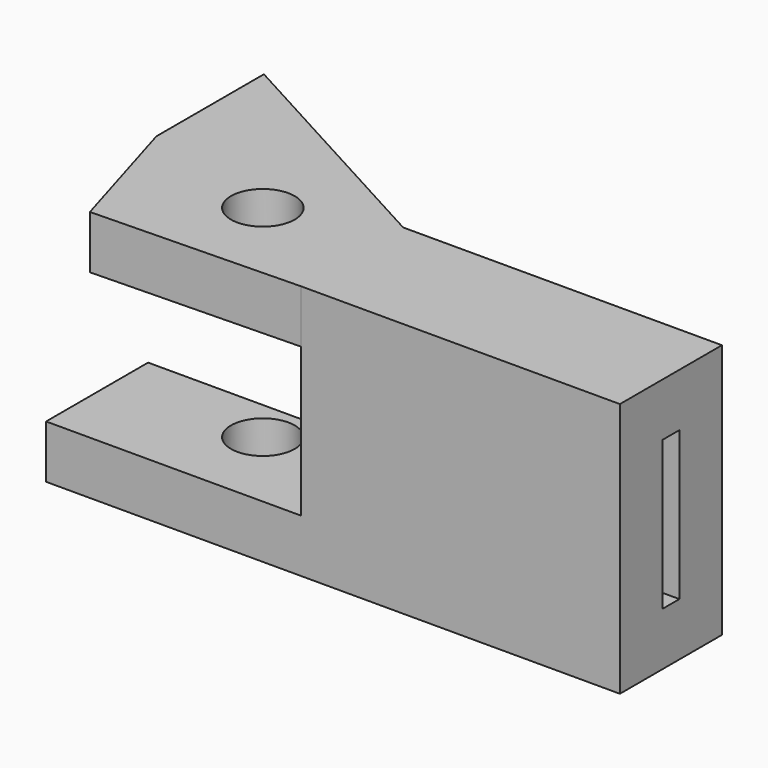
from build123d import *

# Parameters (mm, degrees)
F0_W     = 7.62
F0_H     = 15.24
F1_DEPTH = 19.05
F2_T     = -3.175
F4_DEPTH = 3.175
F5_W     = 15.24
F5_H     = 7.62
F6_DEPTH = 3.175
F7_R     = 1.905
F8_DEPTH = 15.241


with BuildPart() as f1:
    # F0 (on Right) → F1 (new body)
    with BuildSketch(Plane.YZ):
        with Locations((-3.81, 7.62)):
            Rectangle(F0_W, F0_H)
    extrude(amount=F1_DEPTH)

    # F2
    f2_openings = [f1.faces().sort_by_distance(p)[0] for p in [
        (0, -3.81, 7.62),
        (19.05, -3.81, 7.62),
    ]]
    offset(amount=F2_T, openings=f2_openings)

    # F3 (on face) → F4 (join, through all)
    with BuildSketch(Plane.XY.offset(15.24)):
        Polygon((-12.3918876052, -7.9068467021), (0, -7.62), (0, 0), (-14.744957909, 8.033762686), (-14.744957909, 0), align=None)
    extrude(amount=-F4_DEPTH)

    # F5 (on face) → F6 (join, through all)
    with BuildSketch(Plane(origin=(0, 0, 0), x_dir=(1, 0, 0), z_dir=(0, 0, -1))):
        with Locations((-7.62, 3.81)):
            Rectangle(F5_W, F5_H)
    extrude(amount=-F6_DEPTH)

    # F7 (on face) → F8 (cut, through all)
    with BuildSketch(Plane.XY.offset(15.24)):
        with Locations((-6.35, -2.54)):
            Circle(F7_R)
    extrude(amount=-F8_DEPTH, mode=Mode.SUBTRACT)


solid = f1.part
